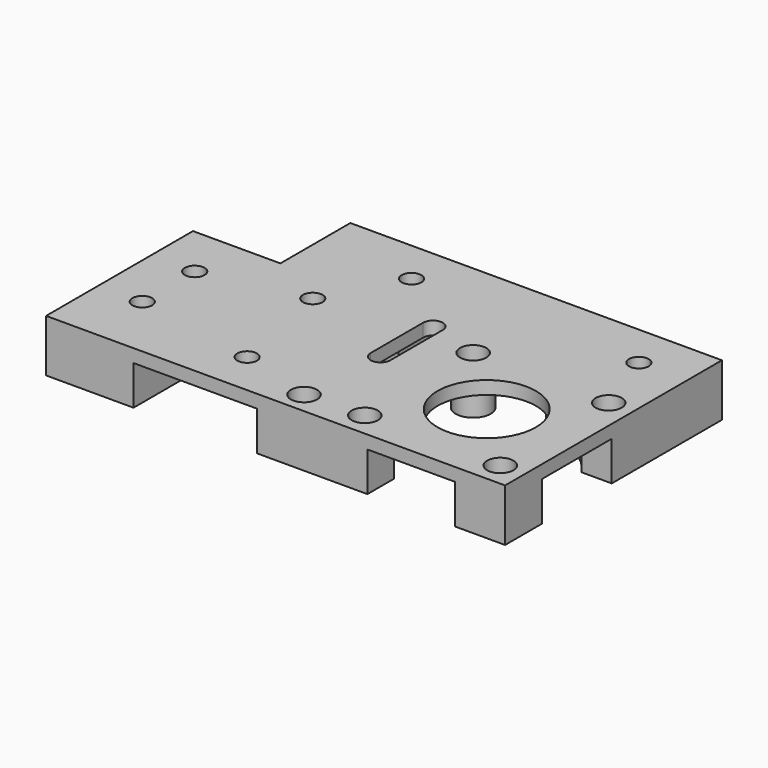
from build123d import *

# Parameters (mm, degrees)
SKETCH_R        = 2.25
SKETCH_R_2      = 11.25
SKETCH_R_3      = 1.75
PAD_DEPTH       = 12
POCKET_DEPTH    = 9
SKETCH002_R     = 4
PAD001_DEPTH    = 8
SKETCH003_R     = 3
POCKET001_DEPTH = 8
SKETCH004_R     = 1.75
POCKET002_DEPTH = 5


with BuildPart() as pocket_belt_path:
    # Sketch → Pad (new body)
    with BuildSketch(Plane.XY):
        Polygon((0, 0), (105, 0), (105, 62), (20, 62), (20, 42), (0, 42), align=None)
        with Locations((38, 10)):
            Circle(SKETCH_R, mode=Mode.SUBTRACT)
        with Locations((33, 35)):
            Circle(SKETCH_R, mode=Mode.SUBTRACT)
        with Locations((84, 21)):
            Circle(SKETCH_R_2, mode=Mode.SUBTRACT)
        with Locations((68.5, 36.5)):
            Circle(SKETCH_R_3, mode=Mode.SUBTRACT)
        with Locations((99.5, 36.5)):
            Circle(SKETCH_R_3, mode=Mode.SUBTRACT)
        with Locations((68.5, 5.5)):
            Circle(SKETCH_R_3, mode=Mode.SUBTRACT)
        with Locations((99.5, 5.5)):
            Circle(SKETCH_R_3, mode=Mode.SUBTRACT)
        with Locations((10, 30)):
            Circle(SKETCH_R, mode=Mode.SUBTRACT)
        with Locations((10, 15)):
            Circle(SKETCH_R, mode=Mode.SUBTRACT)
        with Locations((42, 52)):
            Circle(SKETCH_R, mode=Mode.SUBTRACT)
        with Locations((94, 52)):
            Circle(SKETCH_R, mode=Mode.SUBTRACT)
        with Locations((55, 5)):
            Circle(SKETCH_R_3, mode=Mode.SUBTRACT)
        with BuildLine():
            Line((58.75, 25.000001), (58.75, 40))
            ThreePointArc((58.75, 40), (56.5, 42.25), (54.25, 39.999999))
            Line((54.25, 25), (54.25, 39.999999))
            ThreePointArc((54.25, 25), (56.5, 22.75), (58.75, 25.000001))
        make_face(mode=Mode.SUBTRACT)
    extrude(amount=PAD_DEPTH)

    # Sketch001 → Pocket (cut)
    with BuildSketch(Plane.XY.offset(12)):
        with BuildLine():
            ThreePointArc((41.485277, 42), (39.015593, 44.209375), (35.999996, 45.583005))
            Line((35.999996, 67), (35.999996, 45.583005))
            Line((20, 67), (35.999996, 67))
            Line((20, -1), (20, 67))
            Line((20, -1), (48.252269, -1))
            Line((48.252269, 11), (48.252269, -1))
            Line((48.252269, 11), (70.252269, 11))
            ThreePointArc((70.252269, 11), (71.759618, 9.202833), (73.499996, 7.630258))
            Line((73.499996, 7.630258), (73.499996, -1))
            Line((73.499996, -1), (93.499996, -1))
            Line((93.499996, -1), (93.499996, 6.902128))
            ThreePointArc((93.499996, 6.902128), (95.574295, 8.548671), (97.367695, 10.497399))
            Line((105.499996, 10.497399), (97.367695, 10.497399))
            Line((105.499996, 30.497399), (105.499996, 10.497399))
            Line((98.099621, 30.497399), (105.499996, 30.497399))
            ThreePointArc((98.099621, 30.497399), (91.98574, 36.007594), (83.999996, 38))
            Line((83.999996, 38), (83.999996, 67))
            Line((83.999996, 67), (46.999996, 67))
            Line((46.999996, 67), (46.999996, 42))
            Line((41.485277, 42), (46.999996, 42))
        make_face()
    extrude(amount=-POCKET_DEPTH, mode=Mode.SUBTRACT)


with BuildPart() as pocket002:
    # Part__Mirroring: instance of Pocket belt path
    add(pocket_belt_path.part.mirror(Plane(origin=(52.5, 31, 0), x_dir=(0, 1, 0), z_dir=(0, 0, 1))))

    # Sketch002 → Pad001 (new body)
    with BuildSketch(Plane(origin=(0, 0, -3), x_dir=(1, 0, 0), z_dir=(0, 0, -1))):
        with Locations((68.5, -36.5)):
            Circle(SKETCH002_R)
    extrude(amount=PAD001_DEPTH)

    # Sketch003 → Pocket001 (cut)
    with BuildSketch(Plane.XY):
        with Locations((55, 5)):
            Circle(SKETCH003_R)
        with Locations((68.5, 36.5)):
            Circle(SKETCH003_R)
        with Locations((68.5, 5.5)):
            Circle(SKETCH003_R)
        with Locations((99.5, 36.5)):
            Circle(SKETCH003_R)
        with Locations((99.5, 5.5)):
            Circle(SKETCH003_R)
    extrude(amount=-POCKET001_DEPTH, mode=Mode.SUBTRACT)

    # Sketch004 → Pocket002 (cut)
    with BuildSketch(Plane.XY.offset(-8)):
        with Locations((68.5, 36.5)):
            Circle(SKETCH004_R)
    extrude(amount=-POCKET002_DEPTH, mode=Mode.SUBTRACT)


solid = pocket002.part
